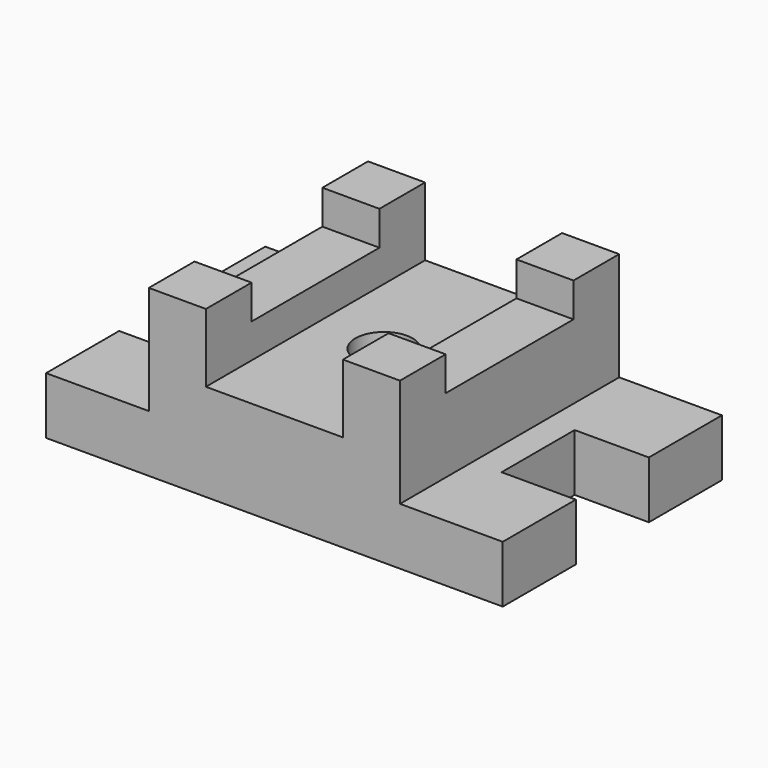
from build123d import *

# Parameters (mm, degrees)
F0_R     = 15.875
F1_DEPTH = 31.75
F2_W     = 139.7
F2_H     = 152.4
F2_R     = 15.875
F3_DEPTH = 22.225
F4_W     = 31.75
F4_H     = 152.4
F5_DEPTH = 19.05
F6_W     = 31.75
F6_H     = 31.75
F7_DEPTH = 19.05
F8_W     = 31.75
F8_H     = 31.75
F9_DEPTH = 19.05


with BuildPart() as f1:
    # F0 (on Top) → F1 (new body)
    with BuildSketch(Plane.XY):
        Polygon((142.802313, 50.8), (-111.197687, 50.8), (-111.197687, 0), (-69.922687, 0), (-69.922687, -50.8), (-111.197687, -50.8), (-111.197687, -101.6), (142.802313, -101.6), (142.802313, -50.8), (101.527313, -50.8), (101.527313, 0), (142.802313, 0), align=None)
        with Locations((15.802313, -25.4)):
            Circle(F0_R, mode=Mode.SUBTRACT)
    extrude(amount=F1_DEPTH)

    # F2 (on face) → F3 (join)
    with BuildSketch(Plane.XY.offset(31.75)):
        with Locations((15.802313, -25.4)):
            Rectangle(F2_W, F2_H)
        with Locations((15.802313, -25.4)):
            Circle(F2_R, mode=Mode.SUBTRACT)
    extrude(amount=F3_DEPTH)

    # F4 (on face) → F5 (join)
    with BuildSketch(Plane.XY.offset(53.975)):
        with Locations((69.777313, -25.4)):
            Rectangle(F4_W, F4_H)
        with Locations((-38.172687, -25.4)):
            Rectangle(F4_W, F4_H)
    extrude(amount=F5_DEPTH)

    # F6 (on face) → F7 (join)
    with BuildSketch(Plane.XY.offset(73.025)):
        with Locations((-38.172687, 34.925)):
            Rectangle(F6_W, F6_H)
        with Locations((-38.172687, -85.725)):
            Rectangle(F6_W, F6_H)
    extrude(amount=F7_DEPTH)

    # F8 (on face) → F9 (join)
    with BuildSketch(Plane.XY.offset(73.025)):
        with Locations((69.777313, 34.925)):
            Rectangle(F8_W, F8_H)
        with Locations((69.777313, -85.725)):
            Rectangle(F8_W, F8_H)
    extrude(amount=F9_DEPTH)


solid = f1.part
